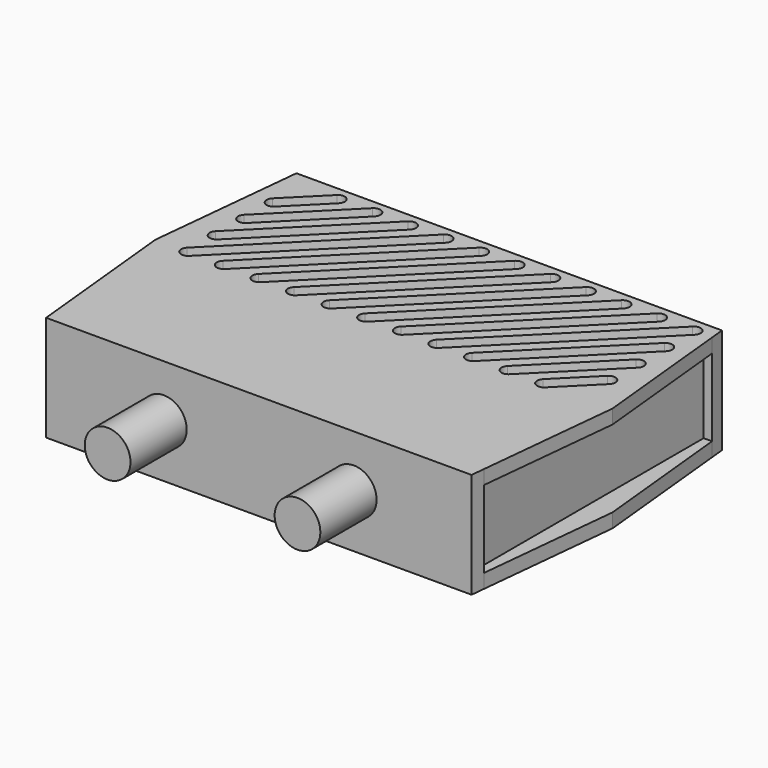
from build123d import *

# Parameters (mm, degrees)
F0_W     = 58.5
F0_H     = 40.5
F1_DEPTH = 7.5
F2_DEPTH = 5.5
F4_DEPTH = 2
F6_R     = 3.25
F7_DEPTH = 10


with BuildPart() as f1:
    # F0 (on Top) → F1 (new body, symmetric)
    with BuildSketch(Plane.XY):
        Rectangle(F0_W, F0_H)
        Polygon((-29.25, -20.25), (-29.25, 20.25), (-30.452247, 20.25), (-32.5, 0), (-30.452247, -20.25), align=None)
        Polygon((-30.452247, 20.25), (-29.25, 20.25), (29.25, 20.25), (30.452247, 20.25), (30.25, 22.25), (-30.25, 22.25), align=None)
        Polygon((30.452247, 20.25), (29.25, 20.25), (29.25, -20.25), (30.452247, -20.25), (32.5, 0), align=None)
        Polygon((29.25, -20.25), (-29.25, -20.25), (-30.452247, -20.25), (-30.25, -22.25), (30.25, -22.25), (30.452247, -20.25), align=None)
    extrude(amount=F1_DEPTH, both=True)

    # F0 (on Top) → F2 (cut, symmetric)
    with BuildSketch(Plane.XY):
        Polygon((-29.25, -20.25), (-29.25, 20.25), (-30.452247, 20.25), (-32.5, 0), (-30.452247, -20.25), align=None)
        Polygon((30.452247, 20.25), (29.25, 20.25), (29.25, -20.25), (30.452247, -20.25), (32.5, 0), align=None)
    extrude(amount=F2_DEPTH, both=True, mode=Mode.SUBTRACT)

    # F3 (on face) → F4 (cut)
    with BuildSketch(Plane.XY.offset(7.5)):
        with BuildLine():
            ThreePointArc((-28.548547, 15.892627), (-28.548547, 14.478413), (-27.134333, 14.478413))
            Line((-27.134333, 14.478413), (-22.069853, 19.542893))
            ThreePointArc((-22.069853, 19.542893), (-22.069853, 20.957107), (-23.484067, 20.957107))
            Line((-23.484067, 20.957107), (-28.548547, 15.892627))
        make_face()
        with BuildLine():
            ThreePointArc((-17.008013, 19.542893), (-17.008013, 20.957107), (-18.422227, 20.957107))
            Line((-18.422227, 20.957107), (-28.548547, 10.830787))
            ThreePointArc((-28.548547, 10.830787), (-28.548547, 9.416573), (-27.134333, 9.416573))
            Line((-27.134333, 9.416573), (-17.008013, 19.542893))
        make_face()
        with BuildLine():
            ThreePointArc((-11.946173, 19.542893), (-11.946173, 20.957107), (-13.360387, 20.957107))
            Line((-13.360387, 20.957107), (-28.548547, 5.768947))
            ThreePointArc((-28.548547, 5.768947), (-28.548547, 4.354733), (-27.134333, 4.354733))
            Line((-27.134333, 4.354733), (-11.946173, 19.542893))
        make_face()
        with BuildLine():
            ThreePointArc((-28.548547, 0.707107), (-28.548547, -0.707107), (-27.134333, -0.707107))
            Line((-27.134333, -0.707107), (-6.884333, 19.542893))
            ThreePointArc((-6.884333, 19.542893), (-6.884333, 20.957107), (-8.298547, 20.957107))
            Line((-8.298547, 20.957107), (-28.548547, 0.707107))
        make_face()
        with BuildLine():
            ThreePointArc((-23.486707, 0.707107), (-23.486707, -0.707107), (-22.072493, -0.707107))
            Line((-22.072493, -0.707107), (-1.822493, 19.542893))
            ThreePointArc((-1.822493, 19.542893), (-1.822493, 20.957107), (-3.236707, 20.957107))
            Line((-3.236707, 20.957107), (-23.486707, 0.707107))
        make_face()
        with BuildLine():
            ThreePointArc((-18.424867, 0.707107), (-18.424867, -0.707107), (-17.010653, -0.707107))
            Line((-17.010653, -0.707107), (3.239347, 19.542893))
            ThreePointArc((3.239347, 19.542893), (3.239347, 20.957107), (1.825133, 20.957107))
            Line((1.825133, 20.957107), (-18.424867, 0.707107))
        make_face()
        with BuildLine():
            ThreePointArc((-13.363027, 0.707107), (-13.363027, -0.707107), (-11.948813, -0.707107))
            Line((-11.948813, -0.707107), (8.301187, 19.542893))
            ThreePointArc((8.301187, 19.542893), (8.301187, 20.957107), (6.886973, 20.957107))
            Line((6.886973, 20.957107), (-13.363027, 0.707107))
        make_face()
        with BuildLine():
            ThreePointArc((-8.301187, 0.707107), (-8.301187, -0.707107), (-6.886973, -0.707107))
            Line((-6.886973, -0.707107), (13.363027, 19.542893))
            ThreePointArc((13.363027, 19.542893), (13.363027, 20.957107), (11.948813, 20.957107))
            Line((11.948813, 20.957107), (-8.301187, 0.707107))
        make_face()
        with BuildLine():
            ThreePointArc((-3.239347, 0.707107), (-3.239347, -0.707107), (-1.825133, -0.707107))
            Line((-1.825133, -0.707107), (18.424867, 19.542893))
            ThreePointArc((18.424867, 19.542893), (18.424867, 20.957107), (17.010653, 20.957107))
            Line((17.010653, 20.957107), (-3.239347, 0.707107))
        make_face()
        with BuildLine():
            ThreePointArc((1.822493, 0.707107), (1.822493, -0.707107), (3.236707, -0.707107))
            Line((3.236707, -0.707107), (23.486707, 19.542893))
            ThreePointArc((23.486707, 19.542893), (23.486707, 20.957107), (22.072493, 20.957107))
            Line((22.072493, 20.957107), (1.822493, 0.707107))
        make_face()
        with BuildLine():
            ThreePointArc((6.884333, 0.707107), (6.884333, -0.707107), (8.298547, -0.707107))
            Line((8.298547, -0.707107), (28.548547, 19.542893))
            ThreePointArc((28.548547, 19.542893), (28.548547, 20.957107), (27.134333, 20.957107))
            Line((27.134333, 20.957107), (6.884333, 0.707107))
        make_face()
        with BuildLine():
            ThreePointArc((11.946173, 0.707107), (11.946173, -0.707107), (13.360387, -0.707107))
            Line((13.360387, -0.707107), (28.548547, 14.481053))
            ThreePointArc((28.548547, 14.481053), (28.548547, 15.895267), (27.134333, 15.895267))
            Line((27.134333, 15.895267), (11.946173, 0.707107))
        make_face()
        with BuildLine():
            ThreePointArc((17.008013, 0.707107), (17.008013, -0.707107), (18.422227, -0.707107))
            Line((18.422227, -0.707107), (28.548547, 9.419213))
            ThreePointArc((28.548547, 9.419213), (28.548547, 10.833427), (27.134333, 10.833427))
            Line((27.134333, 10.833427), (17.008013, 0.707107))
        make_face()
        with BuildLine():
            ThreePointArc((28.548547, 4.357373), (28.548547, 5.771587), (27.134333, 5.771587))
            Line((27.134333, 5.771587), (22.069853, 0.707107))
            ThreePointArc((22.069853, 0.707107), (22.069853, -0.707107), (23.484067, -0.707107))
            Line((23.484067, -0.707107), (28.548547, 4.357373))
        make_face()
    extrude(amount=-F4_DEPTH, mode=Mode.SUBTRACT)

    # F5: F1 across plane


with BuildPart() as f1_1:
    add(f1.part)
    add(f1.part.mirror(Plane.XY), mode=Mode.INTERSECT)

    # F6 (on face) → F7 (join)
    with BuildSketch(Plane.XZ.offset(22.25)):
        with Locations((-13.5, 0)):
            Circle(F6_R)
        with Locations((13.5, 0)):
            Circle(F6_R)
    extrude(amount=F7_DEPTH)


solid = f1_1.part
